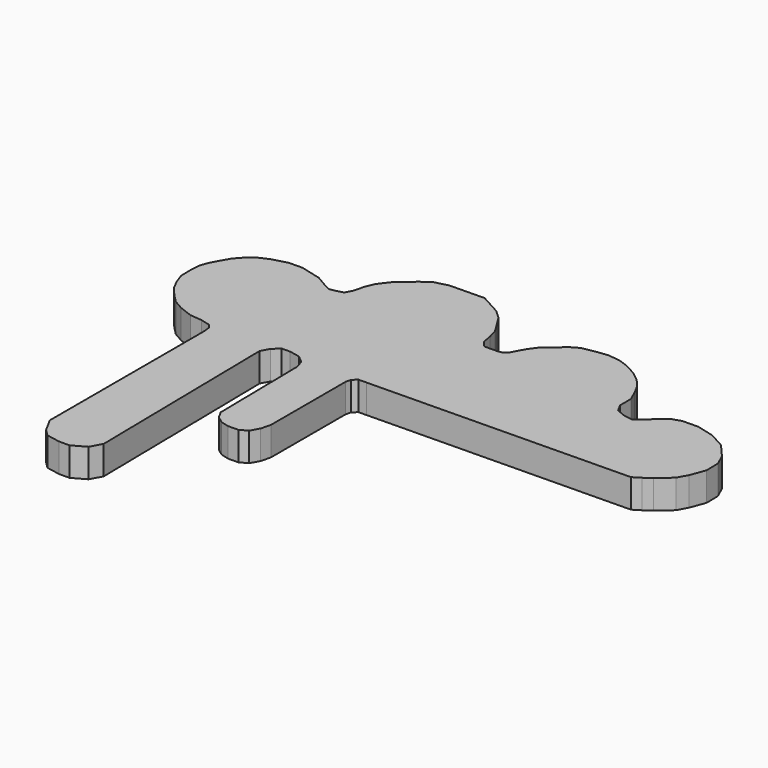
from build123d import *

# Parameters (mm, degrees)
F1_DEPTH = 2


with BuildPart() as f1:
    # F0 (on Top) → F1 (new body)
    with BuildSketch(Plane.XY):
        Polygon((10.316424, 46.21381), (10.378422, 45.792866), (10.378422, 32.24406), (10.922515, 31.239605), (11.388969, 30.782871), (12.3236, 30.607224), (13.063584, 30.607224), (13.980744, 31.123197), (14.411193, 31.909108), (14.195969, 45.771692), (14.505405, 46.336659), (14.951889, 46.75483), (15.547823, 46.764082), (16.267732, 46.618171), (16.767925, 46.196714), (16.955901, 45.625031), (17.061751, 38.807264), (17.342532, 38.290832), (17.816337, 37.93142), (18.39029, 37.777532), (19.1046, 37.788622), (19.633163, 38.07852), (19.958686, 38.672859), (20.130083, 39.338022), (20.130083, 45.869723), (20.224372, 46.235643), (20.517316, 46.503272), (21.081642, 46.512033), (39.306525, 46.794985), (39.82532, 47.116615), (40.338621, 47.479954), (41.258305, 48.273247), (41.635639, 48.962181), (42.02386, 49.992487), (42.008081, 51.008835), (41.635639, 51.823597), (40.777957, 52.81793), (39.679653, 53.419479), (38.45059, 53.736179), (37.345576, 53.719023), (36.693033, 53.5032), (35.996381, 52.902289), (35.486977, 52.462892), (35.121937, 52.148019), (34.468539, 52.243274), (33.846248, 52.497253), (33.542935, 53.056076), (33.542935, 53.990863), (33.238664, 54.682236), (32.856002, 55.402562), (32.352884, 55.98584), (31.721991, 56.476444), (30.923305, 56.91389), (30.231845, 57.161622), (29.377455, 57.263315), (28.54972, 57.161622), (27.647492, 56.998174), (27.101057, 56.685288), (26.424225, 56.101473), (25.806281, 55.568452), (25.401196, 55.0007), (25.182293, 54.601029), (24.914882, 54.112791), (24.691492, 53.920102), (24.348679, 53.857998), (23.43077, 53.843747), (23.063278, 54.269789), (22.938367, 54.959297), (22.745963, 55.637598), (22.354444, 56.271017), (21.897662, 56.998174), (21.295404, 57.541236), (20.676884, 57.880004), (19.87285, 58.320378), (18.866845, 58.30476), (17.419982, 58.282296), (16.487831, 58.031149), (15.852839, 57.576239), (15.281766, 57.083648), (14.737288, 56.613998), (14.181019, 55.884421), (13.927415, 55.262856), (13.732859, 54.507815), (13.479641, 54.045492), (13.071425, 53.935507), (12.569794, 53.845812), (12.017341, 54.134376), (11.315221, 54.545794), (9.885113, 54.914299), (8.924496, 54.899385), (7.908149, 54.625553), (7.127685, 54.270785), (6.658861, 53.866391), (6.18615, 53.341925), (5.873267, 52.793737), (5.551593, 52.206428), (5.345334, 51.640082), (5.28802, 51.033568), (5.30319, 50.05647), (5.558579, 49.329612), (5.919253, 48.639685), (6.434358, 48.04251), (6.987177, 47.476605), (7.680411, 47.080936), (8.60151, 46.729587), (9.445827, 46.648875), (10.082705, 46.484766), align=None)
    extrude(amount=F1_DEPTH)


solid = f1.part
